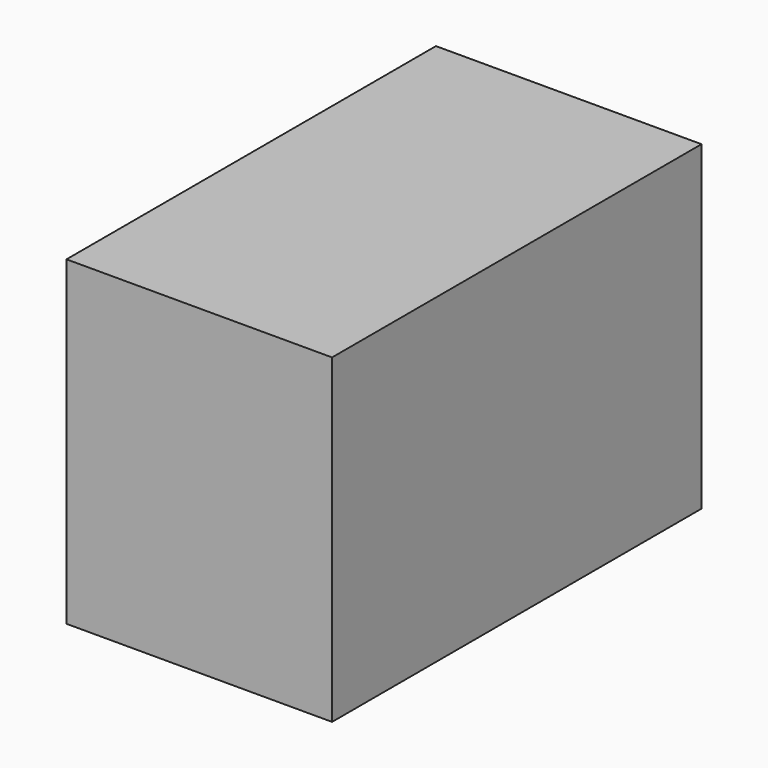
from build123d import *

# Parameters (mm, degrees)
SKETCH_W  = 1043.333333
SKETCH_H  = 725
PAD_DEPTH = 600


with BuildPart() as part:
    # Sketch → Pad (new body)
    with BuildSketch(Plane.YZ):
        with Locations((-521.666667, 362.5)):
            Rectangle(SKETCH_W, SKETCH_H)
    extrude(amount=PAD_DEPTH)


solid = part.part
